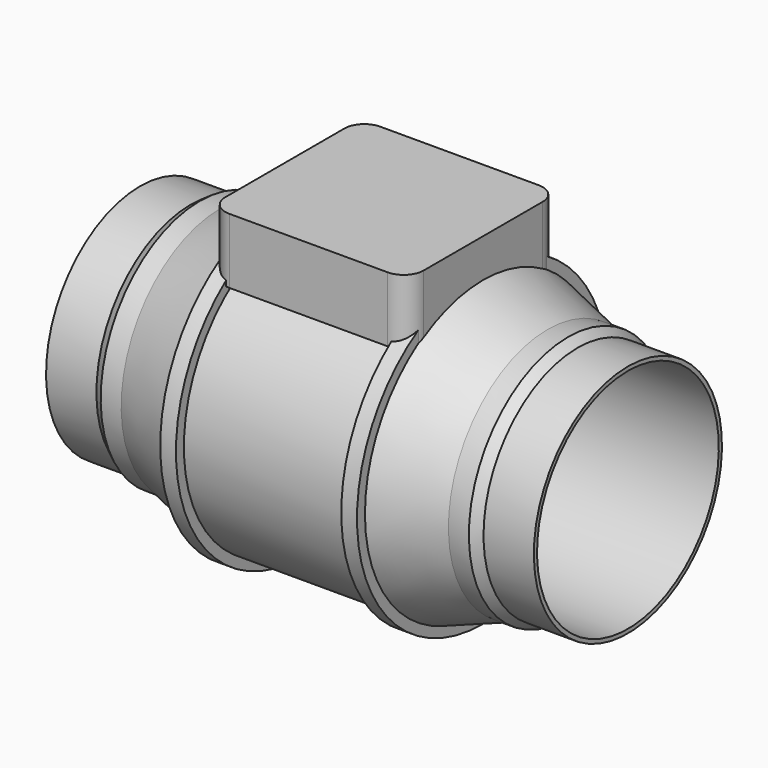
from build123d import *

# Parameters (mm, degrees)
PAD_DEPTH = 41.402


with BuildPart() as part:
    # Sketch → Revolution (revolve)
    with BuildSketch(Plane.XZ):
        Polygon((-103.94, 78.781697), (-62.5, 93.264797), (-62.5, 99.568), (-52.5, 99.568), (-52.5, 93.264797), (52.5, 93.264797), (52.5, 99.568), (62.5, 99.568), (62.5, 93.264797), (103.94, 78.781697), (116.94, 78.781697), (122.94, 74.676), (154.94, 74.676), (154.94, 72.176), (54.94, 72.176), (54.94, 0), (-54.94, 0), (-54.94, 72.176), (-154.94, 72.176), (-154.94, 74.676), (-122.94, 74.676), (-116.94, 78.781697), align=None)
    revolve(axis=Axis((0, 0, 0), (1, 0, 0)))

    # Sketch001 → Pad (new body)
    with BuildSketch(Plane.XY.offset(76.2)):
        with BuildLine():
            Line((-50.3, -59.944), (50.3, -59.944))
            ThreePointArc((50.3, -59.944), (59.280256, -56.224256), (63, -47.244))
            Line((63, -47.244), (63, 47.244))
            ThreePointArc((63, 47.244), (59.280256, 56.224256), (50.3, 59.944))
            Line((50.3, 59.944), (-50.3, 59.944))
            ThreePointArc((-50.3, 59.944), (-59.280256, 56.224256), (-63, 47.244))
            Line((-63, 47.244), (-63, -47.244))
            ThreePointArc((-63, -47.244), (-59.280256, -56.224256), (-50.3, -59.944))
        make_face()
    extrude(amount=PAD_DEPTH)


solid = part.part
